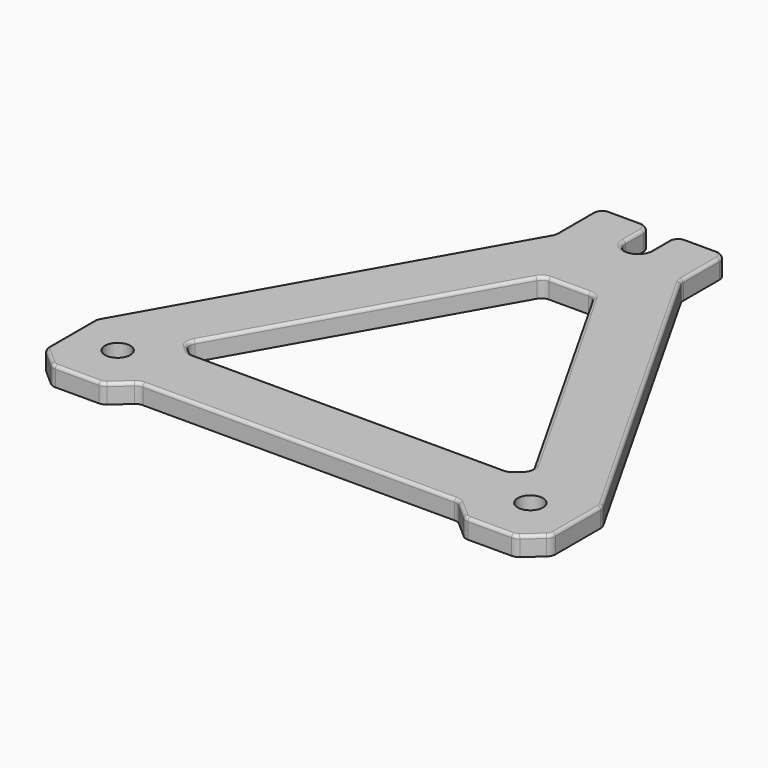
from build123d import *

# Parameters (mm, degrees)
SKETCH_R    = 4
PAD_DEPTH   = 6
FILLET_R    = 3
FILLET001_R = 1


with BuildPart() as part:
    # Sketch → Pad (new body)
    with BuildSketch(Plane.XY):
        with BuildLine():
            Line((-20, 132), (-80, 26))
            Line((-80, 26), (-80, 6))
            Line((-80, 6), (-73.167603, 0))
            Line((-73.167603, 0), (-57.167603, 0))
            Line((-57.167603, 0), (-50.335206, 6))
            Line((-50.335206, 6), (50.335206, 6))
            Line((50.335206, 6), (57.167603, 0))
            Line((57.167603, 0), (73.167603, 0))
            Line((73.167603, 0), (80, 6))
            Line((80, 6), (80, 26))
            Line((80, 26), (20, 132))
            Line((20, 132), (20, 150))
            Line((4, 150), (20, 150))
            Line((4, 140), (4, 150))
            ThreePointArc((-4, 140), (0, 136), (4, 140))
            Line((-4, 150), (-4, 140))
            Line((-20, 150), (-4, 150))
            Line((-20, 132), (-20, 150))
        make_face()
        with Locations((-65.167603, 16)):
            Circle(SKETCH_R, mode=Mode.SUBTRACT)
        with Locations((65.167603, 16)):
            Circle(SKETCH_R, mode=Mode.SUBTRACT)
        Polygon((-54.799288, 29.920219), (-8, 112.59896), (8, 112.59896), (54.799288, 29.920219), (50.335206, 26), (-50.335206, 26), align=None, mode=Mode.SUBTRACT)
    extrude(amount=PAD_DEPTH)

    # Fillet
    fillet_edges = [part.edges().sort_by_distance(p)[0] for p in [
        (-20, 132, 3),
        (-80, 26, 3),
        (-80, 6, 3),
        (-73.167603, 0, 3),
        (-57.167603, 0, 3),
        (-50.335206, 6, 3),
        (50.335206, 6, 3),
        (57.167603, 0, 3),
        (73.167603, 0, 3),
        (80, 6, 3),
        (80, 26, 3),
        (20, 132, 3),
        (20, 150, 3),
        (4, 150, 3),
        (-4, 150, 3),
        (-20, 150, 3),
        (-54.799288, 29.920219, 3),
        (-8, 112.59896, 3),
        (8, 112.59896, 3),
        (54.799288, 29.920219, 3),
        (50.335206, 26, 3),
        (-50.335206, 26, 3),
    ]]
    fillet(fillet_edges, radius=FILLET_R)

    # Fillet001
    fillet001_edges = [part.edges().sort_by_distance(p)[0] for p in [
        (-50, 79, 6),
        (-31.229726, 71.559778, 6),
    ]]
    fillet(fillet001_edges, radius=FILLET001_R)


solid = part.part
